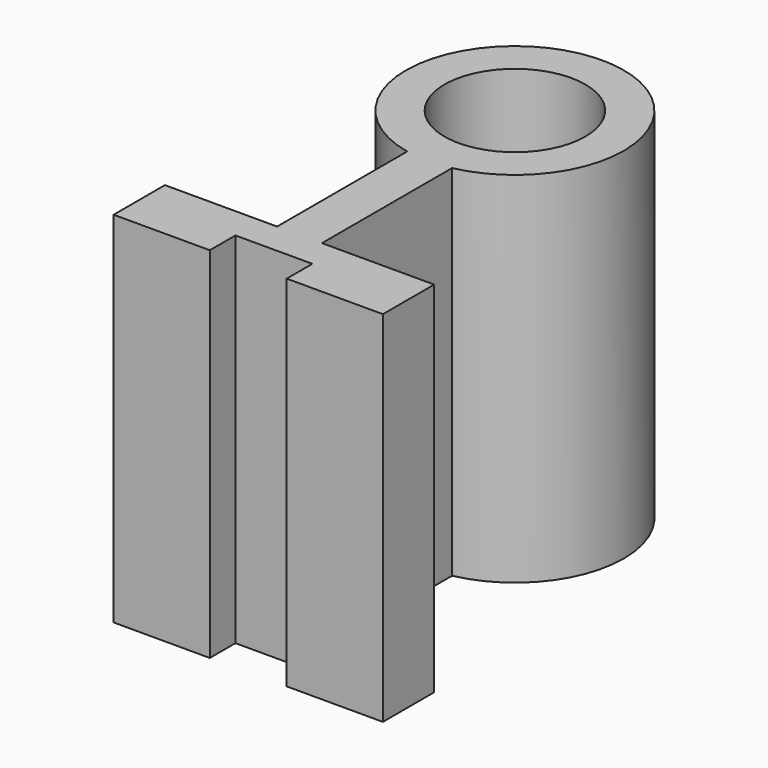
from build123d import *

# Parameters (mm, degrees)
F0_R     = 11
F1_DEPTH = 56


with BuildPart() as f1:
    # F0 (on Top) → F1 (new body)
    with BuildSketch(Plane.XY):
        with BuildLine():
            Line((0, 25.364195), (0, 0))
            Line((0, 0), (-17.5, 0))
            Line((-17.5, 0), (-17.5, -10))
            Line((-17.5, -10), (-2.5, -10))
            Line((-2.5, -10), (-2.5, -5))
            Line((-2.5, -5), (9.5, -5))
            Line((9.5, -5), (9.5, -10))
            Line((9.5, -10), (24.5, -10))
            Line((24.5, -10), (24.5, 0))
            Line((24.5, 0), (7, 0))
            Line((7, 0), (7, 25.364195))
            ThreePointArc((7, 25.364195), (3.5, 59), (0, 25.364195))
        make_face()
        with Locations((3.5, 42)):
            Circle(F0_R, mode=Mode.SUBTRACT)
    extrude(amount=F1_DEPTH)


solid = f1.part
